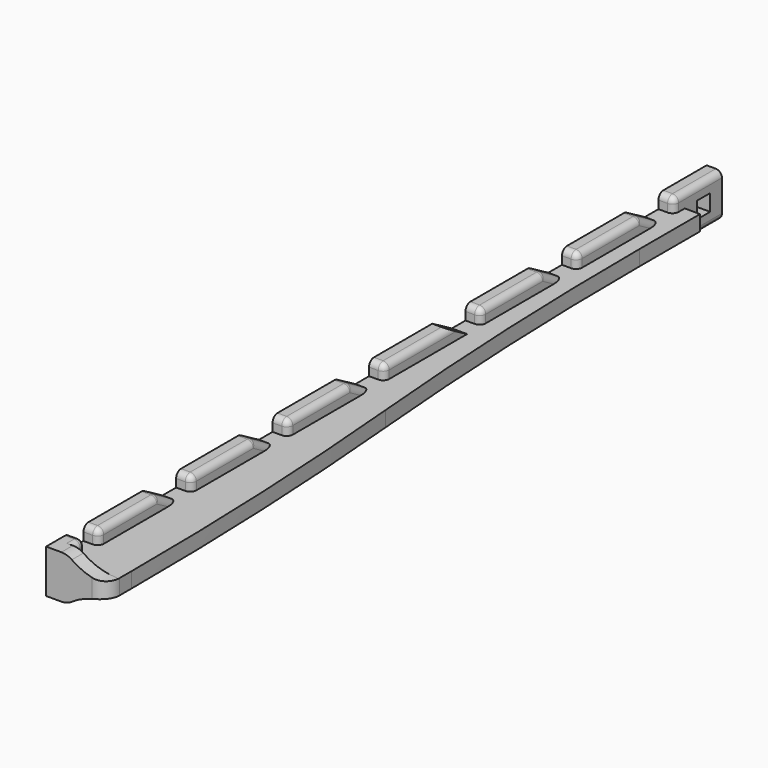
from build123d import *

# Parameters (mm, degrees)
SKETCH005_W          = 5
SKETCH005_H          = 14.2336
PAD003_DEPTH         = 270
PAD004_DEPTH         = 2.5
PAD005_DEPTH         = 4.7
SKETCH012_W          = 5.4
SKETCH012_H          = 5.4
POCKET004_DEPTH      = 2.501
POCKET004_DEPTH_BACK = 17.501
POCKET005_DEPTH      = 2.501
POCKET005_DEPTH_BACK = 17.501
LINEARPATTERN_COUNT  = 6
LINEARPATTERN_PITCH  = 39.428571
SKETCH015_W          = 5.6
SKETCH015_H          = 4.6168
POCKET006_DEPTH      = 2.501
POCKET006_DEPTH_BACK = 17.501
FILLET008_R          = 5
FILLET010_R          = 2


with BuildPart() as part:
    # Sketch005 → Pad003 (new body)
    with BuildSketch(Plane.XZ.offset(-40)):
        Rectangle(SKETCH005_W, SKETCH005_H)
    extrude(amount=PAD003_DEPTH)

    # Sketch006 → Pad004 (join, symmetric)
    with BuildSketch(Plane.XY):
        with BuildLine():
            Line((2.5, -230), (17.5, -230))
            Line((17.5, -230), (17.5, -220))
            ThreePointArc((17.5, -220), (16.249355, -164.943211), (12.5, -110))
            ThreePointArc((7.5, 0), (8.750645, -55.056789), (12.5, -110))
            Line((7.5, 24.8), (7.5, 0))
            Line((2.5, 24.8), (7.5, 24.8))
            Line((2.5, 24.8), (2.5, -230))
        make_face()
    extrude(amount=PAD004_DEPTH, both=True)

    # Sketch007 (on Face5 of Pad004) → Pad005 (join)
    with BuildSketch(Plane.XZ.offset(230)):
        with BuildLine():
            Line((17.5, 2.5), (17.5, -2.5))
            ThreePointArc((17.5, -2.5), (11.43134, -3.37689), (5.913552, -6.051135))
            ThreePointArc((2.5, -7.1168), (4.288014, -6.844191), (5.913552, -6.051135))
            Line((-2.5, -7.1168), (2.5, -7.1168))
            Line((-2.5, -7.1168), (-2.5, 7.1168))
            Line((-2.5, 7.1168), (2.5, 7.1168))
            ThreePointArc((5.913552, 6.051135), (4.288014, 6.844191), (2.5, 7.1168))
            ThreePointArc((5.913552, 6.051135), (11.43134, 3.37689), (17.5, 2.5))
        make_face()
    extrude(amount=-PAD005_DEPTH)

    # Sketch012 → Pocket004 (cut, two sides)
    with BuildSketch(Plane.YZ) as pocket004_sk:
        with Locations((32.5, 0)):
            Rectangle(SKETCH012_W, SKETCH012_H)
    extrude(amount=-POCKET004_DEPTH, mode=Mode.SUBTRACT)
    extrude(pocket004_sk.sketch, amount=POCKET004_DEPTH_BACK, mode=Mode.SUBTRACT)

    # Sketch013 → Pocket005 (cut, two sides)
    with BuildSketch(Plane.YZ) as pocket005_sk:
        Polygon((6.703468, 7.1168), (20.3, 7.1168), (20.3, 2.5), (14.7, 2.5), align=None)
    pocket005 = extrude(amount=-POCKET005_DEPTH, mode=Mode.SUBTRACT) + extrude(pocket005_sk.sketch, amount=POCKET005_DEPTH_BACK, mode=Mode.SUBTRACT)

    # LinearPattern: Pocket005 ×6
    with Locations(*[(0, -i * LINEARPATTERN_PITCH, 0) for i in range(1, LINEARPATTERN_COUNT)]):
        add(pocket005, mode=Mode.SUBTRACT)

    # Sketch015 → Pocket006 (cut, two sides)
    with BuildSketch(Plane.YZ) as pocket006_sk:
        with Locations((-217.5, 4.8084)):
            Rectangle(SKETCH015_W, SKETCH015_H)
    extrude(amount=-POCKET006_DEPTH, mode=Mode.SUBTRACT)
    extrude(pocket006_sk.sketch, amount=POCKET006_DEPTH_BACK, mode=Mode.SUBTRACT)

    # Fillet008
    fillet008_edges = [part.edges().sort_by_distance(p)[0] for p in [
        (17.5, -230, 0),
    ]]
    fillet(fillet008_edges, radius=FILLET008_R)

    # Fillet010
    fillet010_edges = [part.edges().sort_by_distance(p)[0] for p in [
        (2.5, -220.3, 4.8084),
        (0, -220.3, 7.1168),
        (2.5, -214.7, 4.8084),
        (0, -214.7, 7.1168),
        (2.5, -202.569695, 7.1168),
        (0, -190.439389, 7.1168),
        (2.5, -186.441123, 4.8084),
        (2.5, -176.842857, 4.8084),
        (0, -176.842857, 7.1168),
        (2.5, -163.926838, 7.1168),
        (2.5, -147.012552, 4.8084),
        (0, -151.010818, 7.1168),
        (2.5, -137.414286, 4.8084),
        (0, -137.414286, 7.1168),
        (2.5, -124.498266, 7.1168),
        (2.5, -107.58398, 4.8084),
        (0, -111.582246, 7.1168),
        (2.5, -97.985714, 4.8084),
        (0, -97.985714, 7.1168),
        (2.5, -85.069695, 7.1168),
        (2.5, -58.557143, 4.8084),
        (0, -58.557143, 7.1168),
        (2.5, -45.641123, 7.1168),
        (0, -32.725104, 7.1168),
        (2.5, -28.726838, 4.8084),
        (2.5, -19.128571, 4.8084),
        (0, -19.128571, 7.1168),
        (2.5, -6.212552, 7.1168),
        (0, 6.703468, 7.1168),
        (2.5, 10.701734, 4.8084),
        (2.5, -222.8, 7.1168),
        (0, 20.3, 7.1168),
        (2.5, 30.15, 7.1168),
        (2.5, 20.3, 4.8084),
        (2.5, -92.65, -7.1168),
    ]]
    fillet(fillet010_edges, radius=FILLET010_R)


with BuildPart() as part_1:
    # Body001 placement: moved
    add(part.part.moved(Location((28.4159, -10, 78.239))))


solid = part_1.part
